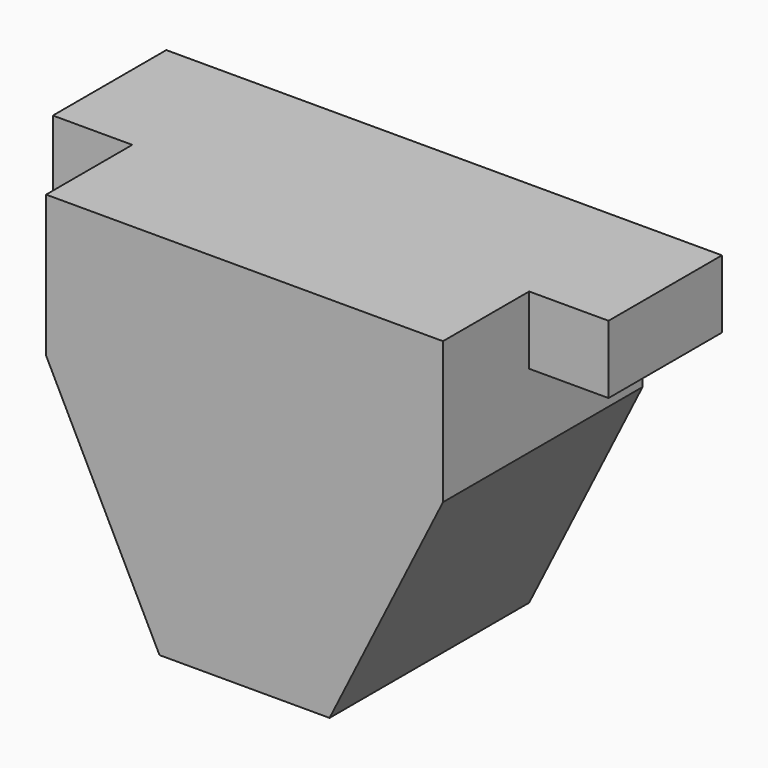
from build123d import *

# Parameters (mm, degrees)
F1_DEPTH = 44
F0_W     = 14
F0_H     = 12
F2_DEPTH = 25


with BuildPart() as f1:
    # F0 (on Front) → F1 (new body)
    with BuildSketch(Plane.XZ):
        Polygon((51.345316, 25), (-18.654684, 25), (-18.654684, 13), (-18.654684, 0), (1.345316, -40), (31.345316, -40), (51.345316, 0), (51.345316, 13), align=None)
    extrude(amount=F1_DEPTH)

    # F0 (on Front) → F2 (join)
    with BuildSketch(Plane.XZ):
        with Locations((-25.654684, 19)):
            Rectangle(F0_W, F0_H)
        with Locations((58.345316, 19)):
            Rectangle(F0_W, F0_H)
    extrude(amount=F2_DEPTH)


solid = f1.part
